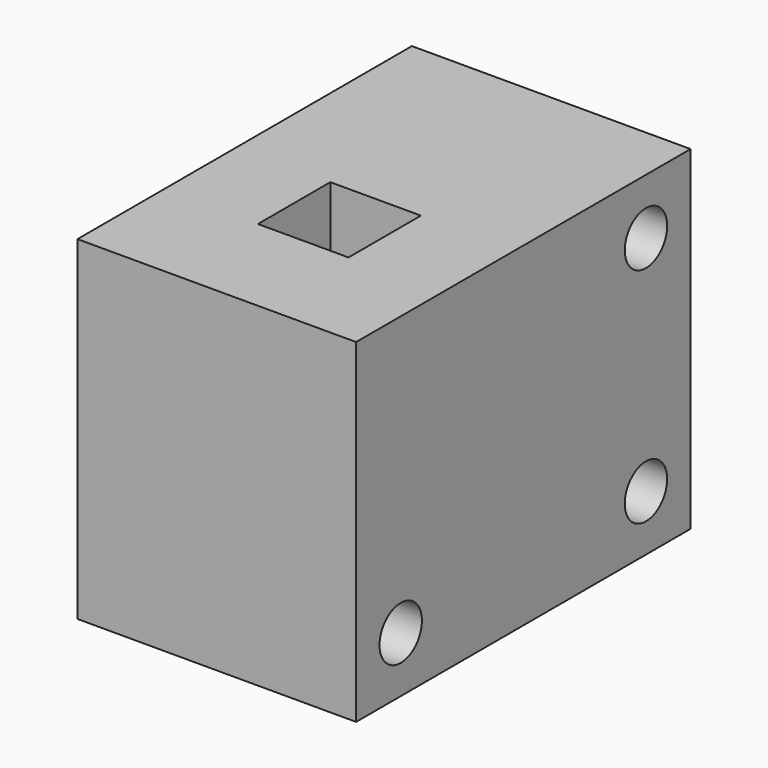
from build123d import *

# Parameters (mm, degrees)
SKETCH020_W     = 20
SKETCH020_H     = 30
PAD007_DEPTH    = 40
SKETCH019_R     = 1.9
POCKET013_DEPTH = 20.001
SKETCH021_R     = 3
POCKET012_DEPTH = 3
SKETCH022_R     = 0.5
POCKET014_DEPTH = 0.5
SKETCH023_W     = 30
SKETCH023_H     = 16
POCKET015_DEPTH = 20.001
SKETCH024_W     = 6.5
SKETCH024_H     = 6.5
POCKET016_DEPTH = 3
SKETCH025_W     = 6.5
SKETCH025_H     = 2
POCKET017_DEPTH = 21.001


with BuildPart() as part:
    # Sketch020 → Pad007 (new body)
    with BuildSketch(Plane.XY):
        with Locations((-43, 0)):
            Rectangle(SKETCH020_W, SKETCH020_H)
    extrude(amount=PAD007_DEPTH)

    # Sketch019 (on Face4 of Pad007) → Pocket013 (cut, through all)
    with BuildSketch(Plane(origin=(-53, 0, 0), x_dir=(0, -1, 0), z_dir=(-1, 0, 0))):
        with Locations((-11, 36)):
            Circle(SKETCH019_R)
        with Locations((11, 20)):
            Circle(SKETCH019_R)
        with Locations((-11, 20)):
            Circle(SKETCH019_R)
        with Locations((-11, 4)):
            Circle(SKETCH019_R)
        with Locations((11, 4)):
            Circle(SKETCH019_R)
    extrude(amount=-POCKET013_DEPTH, mode=Mode.SUBTRACT)

    # Sketch021 (on Face2 of Pocket013) → Pocket012 (cut)
    with BuildSketch(Plane(origin=(-53, 0, 0), x_dir=(0, -1, 0), z_dir=(-1, 0, 0))):
        with Locations((-11, 36)):
            Circle(SKETCH021_R)
        with Locations((-11, 20)):
            Circle(SKETCH021_R)
        with Locations((-11, 4)):
            Circle(SKETCH021_R)
        with Locations((11, 4)):
            Circle(SKETCH021_R)
        with Locations((11, 20)):
            Circle(SKETCH021_R)
    extrude(amount=-POCKET012_DEPTH, mode=Mode.SUBTRACT)

    # Sketch022 (on Face5 of Pocket012) → Pocket014 (cut)
    with BuildSketch(Plane.XY.offset(40)):
        with Locations((-43, -4)):
            Circle(SKETCH022_R)
    extrude(amount=-POCKET014_DEPTH, mode=Mode.SUBTRACT)

    # Sketch023 (on Face2 of Pocket014) → Pocket015 (cut, through all)
    with BuildSketch(Plane(origin=(-53, 0, 0), x_dir=(0, -1, 0), z_dir=(-1, 0, 0))):
        with Locations((0, 8)):
            Rectangle(SKETCH023_W, SKETCH023_H)
    extrude(amount=-POCKET015_DEPTH, mode=Mode.SUBTRACT)

    # Sketch024 (on Face4 of Pocket015) → Pocket016 (cut)
    with BuildSketch(Plane.XY.offset(40)):
        with Locations((-43, -4)):
            Rectangle(SKETCH024_W, SKETCH024_H)
    extrude(amount=-POCKET016_DEPTH, mode=Mode.SUBTRACT)

    # Sketch025 (on Face20 of Pocket016) → Pocket017 (cut, through all)
    with BuildSketch(Plane.XY.offset(37)):
        with Locations((-43, -1.75)):
            Rectangle(SKETCH025_W, SKETCH025_H)
        with Locations((-43, -6.25)):
            Rectangle(SKETCH025_W, SKETCH025_H)
    extrude(amount=-POCKET017_DEPTH, mode=Mode.SUBTRACT)


solid = part.part
